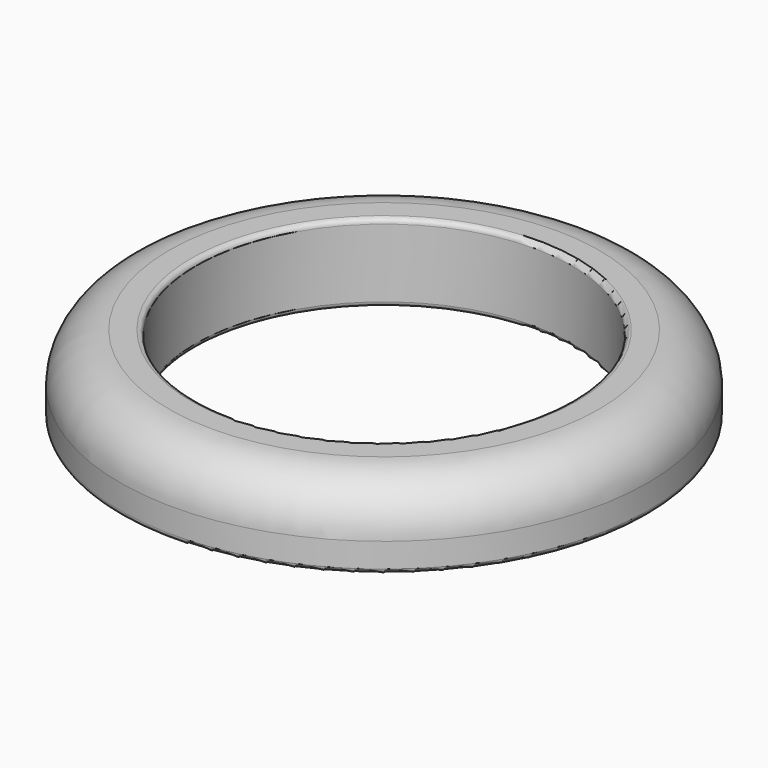
from build123d import *

# Parameters (mm, degrees)
F0_R     = 27
F0_R_2   = 19.25
F1_DEPTH = 8
F2_R     = 5
F3_R     = 0.5
F4_R     = 0.5


with BuildPart() as f1:
    # F0 (on Top) → F1 (new body)
    with BuildSketch(Plane.XY):
        Circle(F0_R)
        Circle(F0_R_2, mode=Mode.SUBTRACT)
    extrude(amount=F1_DEPTH)

    # F2
    f2_edges = [f1.edges().sort_by_distance(p)[0] for p in [
        (-27, 0, 8),
    ]]
    fillet(f2_edges, radius=F2_R)

    # F3
    f3_edges = [f1.edges().sort_by_distance(p)[0] for p in [
        (-19.25, 0, 8),
        (-19.25, 0, 0),
    ]]
    fillet(f3_edges, radius=F3_R)

    # F4
    f4_edges = [f1.edges().sort_by_distance(p)[0] for p in [
        (-27, 0, 0),
    ]]
    fillet(f4_edges, radius=F4_R)


solid = f1.part
